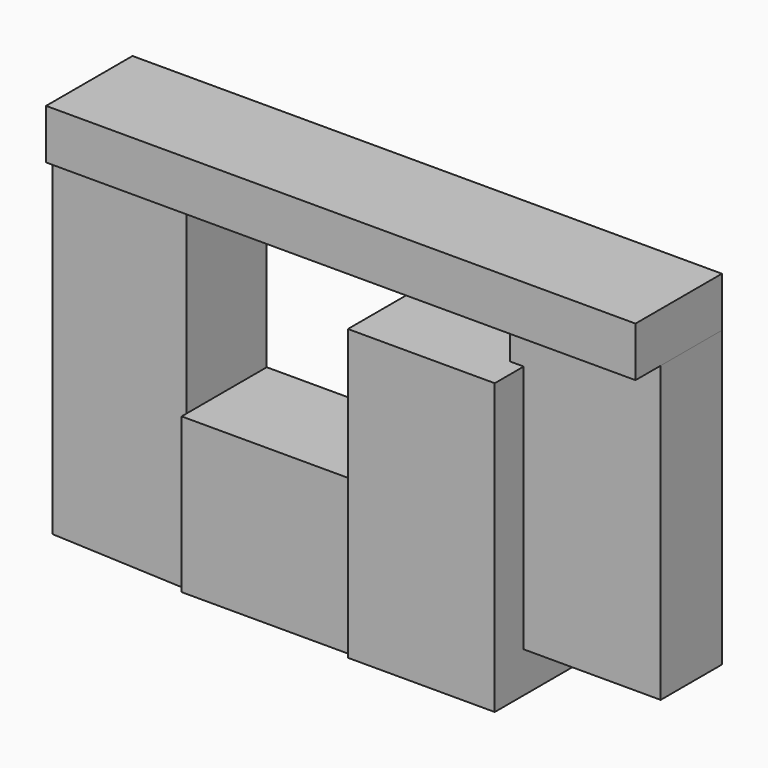
from build123d import *

# Parameters (mm, degrees)
F1_DEPTH      = 606.425
F2_W          = 1016
F2_H          = 936.7715999644
F3_DEPTH      = 38.1
F3_DEPTH_BACK = 606.425
F4_W          = 3568.7
F4_H          = 301.625
F5_DEPTH      = 606.425
F5_DEPTH_BACK = 47.625
F6_W          = 889
F6_H          = 1752.6
F7_DEPTH      = 76.2
F7_DEPTH_BACK = 606.425
F8_W          = 463.5573923588
F8_H          = 1781.7167063635
F9_DEPTH      = 911.225


with BuildPart() as f1:
    # F0 (on Front) → F1 (new body)
    with BuildSketch(Plane.XZ):
        Polygon((-765.7850623447, 1093.0638333242), (-765.7850623447, -907.1861666758), (47.0149376553, -936.7715999644), (47.0149376553, 1093.0638333242), align=None)
    extrude(amount=F1_DEPTH)

    # F2 (on face) → F3 (join, two sides)
    with BuildSketch(Plane.XZ.offset(606.425)) as f3_sk:
        with Locations((555.0149376553, -468.3857999822)):
            Rectangle(F2_W, F2_H)
    extrude(amount=F3_DEPTH)
    extrude(f3_sk.sketch, amount=-F3_DEPTH_BACK)

    # F4 (on face) → F5 (join, two sides)
    with BuildSketch(Plane.XZ.offset(606.425)) as f5_sk:
        with Locations((1018.5649376553, 1243.8763333242)):
            Rectangle(F4_W, F4_H)
    extrude(amount=-F5_DEPTH)
    extrude(f5_sk.sketch, amount=F5_DEPTH_BACK)


with BuildPart() as f7:
    # F6 (on face) → F7 (new body, two sides)
    with BuildSketch(Plane.XZ.offset(606.425)) as f7_sk:
        with Locations((1529.0475479126, -57.6029500447)):
            Rectangle(F6_W, F6_H)
    extrude(amount=F7_DEPTH)
    extrude(f7_sk.sketch, amount=-F7_DEPTH_BACK)


with BuildPart() as f9:
    # F8 (on face) → F9 (new body)
    with BuildSketch(Plane.YZ.offset(2802.9149376553)):
        with Locations((-231.7786961794, 202.2054801425)):
            Rectangle(F8_W, F8_H)
    extrude(amount=-F9_DEPTH)


solid = Compound([f1.part, f7.part, f9.part])
